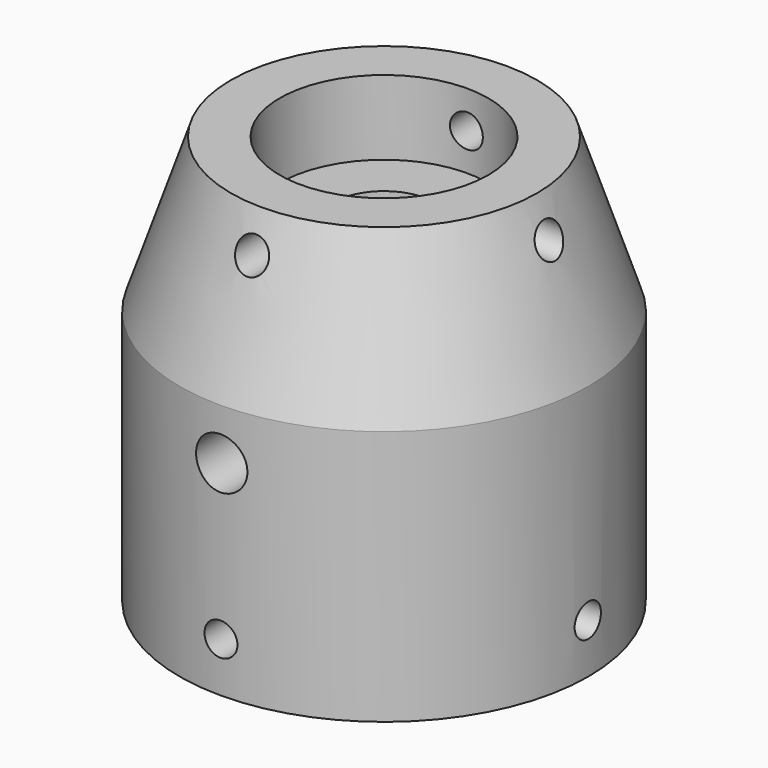
from build123d import *

# Parameters (mm, degrees)
CYLINDER003_R     = 0.761
CYLINDER003_DEPTH = 0.585
CYLINDER004_R     = 0.51
CYLINDER004_DEPTH = 0.465
CYLINDER005_R     = 0.1255
CYLINDER005_DEPTH = 2.2
CYLINDER006_R     = 0.0805
CYLINDER006_DEPTH = 2.2
CYLINDER007_R     = 0.0805
CYLINDER007_DEPTH = 2.2
CYLINDER008_R     = 0.0805
CYLINDER008_DEPTH = 2.2
CYLINDER009_R     = 0.0805
CYLINDER009_DEPTH = 2.2
CYLINDER002_R     = 0.2505
CYLINDER002_DEPTH = 2.2
CYLINDER_R        = 1
CYLINDER_DEPTH    = 1.25


with BuildPart() as cylinder003:
    # cylinder003 → cylinder003 (new body)
    with BuildSketch(Plane.XY.offset(-0.1)):
        Circle(CYLINDER003_R)
    extrude(amount=CYLINDER003_DEPTH)


with BuildPart() as cylinder004:
    # cylinder004 → cylinder004 (new body)
    with BuildSketch(Plane.XY.offset(1.635)):
        Circle(CYLINDER004_R)
    extrude(amount=CYLINDER004_DEPTH)


with BuildPart() as cylinder005:
    # cylinder005 → cylinder005 (new body)
    with BuildSketch(Plane(origin=(0, 1.1, 1), x_dir=(1, 0, 0), z_dir=(0, -1, 0))):
        Circle(CYLINDER005_R)
    extrude(amount=CYLINDER005_DEPTH)


with BuildPart() as cylinder006:
    # cylinder006 → cylinder006 (new body)
    with BuildSketch(Plane(origin=(0, 1.1, 0.2425), x_dir=(1, 0, 0), z_dir=(0, -1, 0))):
        Circle(CYLINDER006_R)
    extrude(amount=CYLINDER006_DEPTH)


with BuildPart() as cylinder007:
    # cylinder007 → cylinder007 (new body)
    with BuildSketch(Plane(origin=(0, 0, 0.2425), x_dir=(0, 0, -1), z_dir=(1, 0, 0))):
        Circle(CYLINDER007_R)
    extrude(amount=CYLINDER007_DEPTH)


with BuildPart() as cylinder008:
    # cylinder008 → cylinder008 (new body)
    with BuildSketch(Plane(origin=(0, 1.1, 1.8175), x_dir=(1, 0, 0), z_dir=(0, -1, 0))):
        Circle(CYLINDER008_R)
    extrude(amount=CYLINDER008_DEPTH)


with BuildPart() as cylinder009:
    # cylinder009 → cylinder009 (new body)
    with BuildSketch(Plane(origin=(0, 0, 1.8175), x_dir=(0, 0, -1), z_dir=(1, 0, 0))):
        Circle(CYLINDER009_R)
    extrude(amount=CYLINDER009_DEPTH)


with BuildPart() as union001:
    # cylinder002 → cylinder002 (new body)
    with BuildSketch(Plane.XY.offset(-0.1)):
        Circle(CYLINDER002_R)
    extrude(amount=CYLINDER002_DEPTH)

    # union001: union cylinder003, cylinder004, cylinder005, cylinder006, cylinder007, cylinder008, cylinder009
    add(cylinder003.part)
    add(cylinder004.part)
    add(cylinder005.part)
    add(cylinder006.part)
    add(cylinder007.part)
    add(cylinder008.part)
    add(cylinder009.part)


with BuildPart() as cylinder001:
    # cylinder001 → cylinder001 (revolve)
    with BuildSketch(Plane(origin=(0, 0, 1.25), x_dir=(1, 0, 0), z_dir=(0, -1, 0))):
        Polygon((0, 0), (1, 0), (0.749, 0.75), (0, 0.75), align=None)
    revolve(axis=Axis((0, 0, 1.25), (0, 0, 1)))


with BuildPart() as difference:
    # cylinder → cylinder (new body)
    with BuildSketch(Plane.XY):
        Circle(CYLINDER_R)
    extrude(amount=CYLINDER_DEPTH)

    # union: union cylinder001
    add(cylinder001.part)

    # difference: cut union001
    add(union001.part, mode=Mode.SUBTRACT)


solid = difference.part
